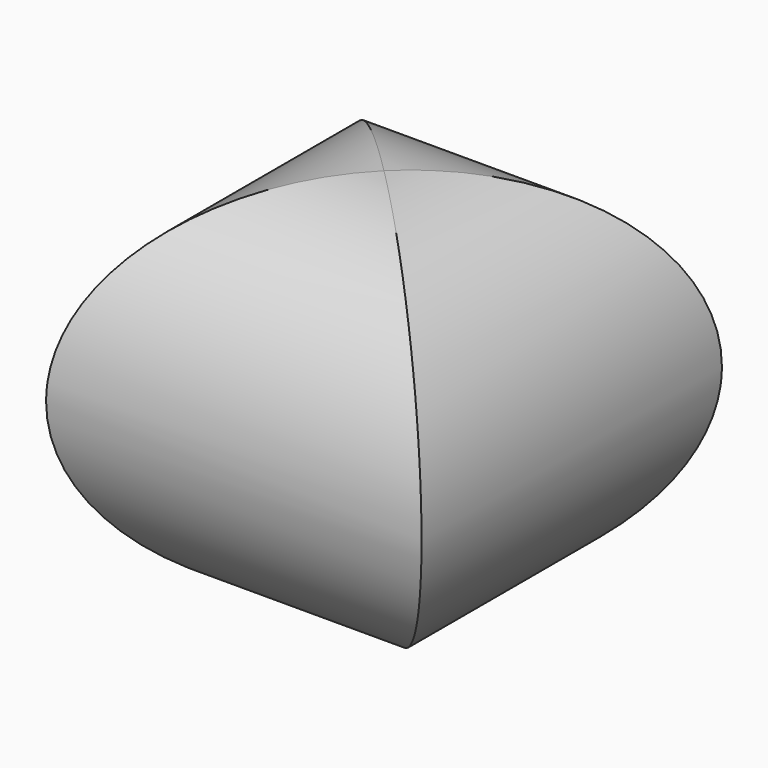
from build123d import *

# Parameters (mm, degrees)
F0_R     = 25
F1_DEPTH = 50
F2_W     = 150
F2_H     = 150
F2_R     = 25
F3_DEPTH = 50


with BuildPart() as f1:
    # F0 (on Front) → F1 (new body, symmetric)
    with BuildSketch(Plane.XZ):
        Circle(F0_R)
    extrude(amount=F1_DEPTH, both=True)

    # F2 (on Right) → F3 (cut, symmetric)
    with BuildSketch(Plane.YZ):
        Rectangle(F2_W, F2_H)
        Circle(F2_R, mode=Mode.SUBTRACT)
    extrude(amount=F3_DEPTH, both=True, mode=Mode.SUBTRACT)


solid = f1.part
